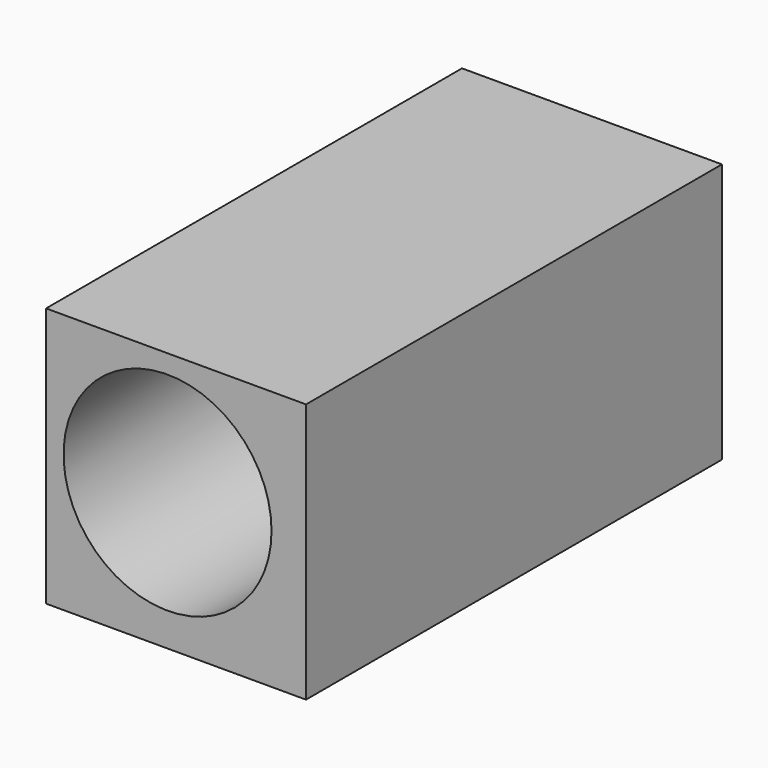
from build123d import *

# Parameters (mm, degrees)
F0_W     = 25.4
F0_H     = 25.4
F1_DEPTH = 50.8
F2_R     = 10.16
F3_DEPTH = 50.801


with BuildPart() as f1:
    # F0 (on Front) → F1 (new body)
    with BuildSketch(Plane.XZ):
        with Locations((0.829598, -0.711867)):
            Rectangle(F0_W, F0_H)
    extrude(amount=F1_DEPTH)

    # F2 (on face) → F3 (cut, through all)
    with BuildSketch(Plane.XZ.offset(50.8)):
        Circle(F2_R)
    extrude(amount=-F3_DEPTH, mode=Mode.SUBTRACT)


solid = f1.part
